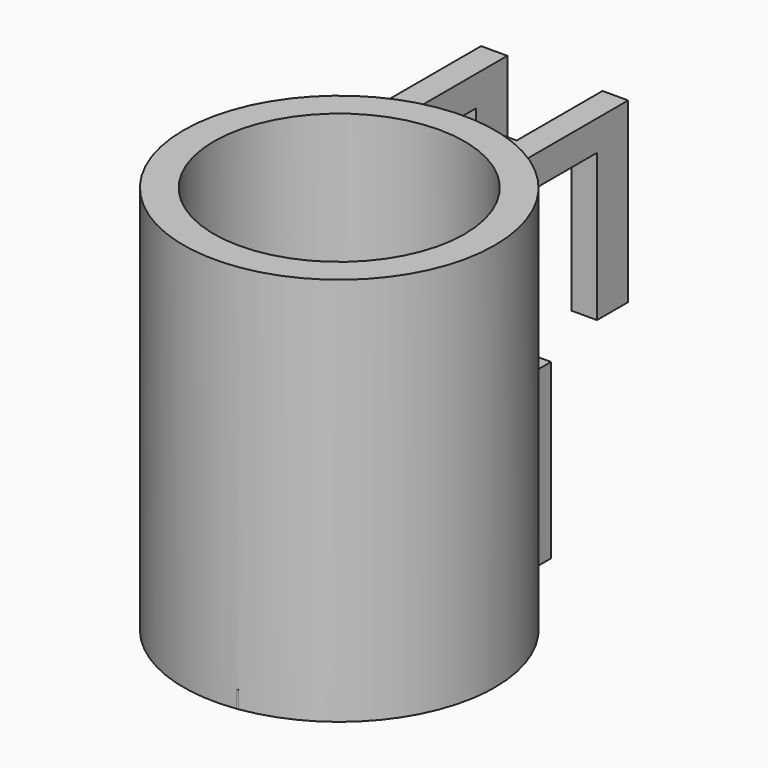
from build123d import *

# Parameters (mm, degrees)
F0_R      = 45.72
F2_DEPTH  = 114.3
F1_R      = 36.83
F3_DEPTH  = 114.3
F4_W      = 90.153438
F4_H      = 12.7
F5_DEPTH  = 5.08
F6_W      = 12.7
F6_H      = 90.641294
F7_DEPTH  = 5.08
F8_W      = 11.431906
F8_H      = 43.256522
F9_DEPTH  = 21.59
F11_DEPTH = 50.8
F12_W     = 27.94
F12_H     = 31.50979
F13_DEPTH = 55.88


with BuildPart() as f2:
    # F0 (on Top) → F2 (new body)
    with BuildSketch(Plane.XY):
        Circle(F0_R)
    extrude(amount=F2_DEPTH)

    # F1 (on Top) → F3 (cut)
    with BuildSketch(Plane.XY):
        Circle(F1_R)
    extrude(amount=F3_DEPTH, mode=Mode.SUBTRACT)

    # F4 (on Top) → F5 (join)
    with BuildSketch(Plane.XY):
        with Locations((0, -1.292501)):
            Rectangle(F4_W, F4_H)
    extrude(amount=F5_DEPTH)

    # F6 (on Top) → F7 (join)
    with BuildSketch(Plane.XY):
        with Locations((0.320298, 0)):
            Rectangle(F6_W, F6_H)
    extrude(amount=F7_DEPTH)

    # F8 (on Right) → F9 (join, symmetric)
    with BuildSketch(Plane.YZ):
        Polygon((79.057269, 111.757322), (40.957269, 111.757322), (40.957269, 102.859358), (67.625363, 102.859358), (79.057269, 102.859358), align=None)
        with Locations((73.341316, 81.231097)):
            Rectangle(F8_W, F8_H)
    extrude(amount=F9_DEPTH, both=True)

    # F10 (on Top) → F11 (join)
    with BuildSketch(Plane.XY):
        with BuildLine():
            Line((-13.038913, 40.473972), (15.744843, 40.473972))
            Line((15.744843, 40.473972), (15.744843, 58.045961))
            Line((15.744843, 58.045961), (12.391999, 58.045961))
            ThreePointArc((12.391999, 58.045961), (1.352965, 47.006926), (-9.68607, 58.045961))
            Line((-9.68607, 58.045961), (-13.038913, 58.045961))
            Line((-13.038913, 58.045961), (-13.038913, 40.473972))
        make_face()
    extrude(amount=F11_DEPTH)

    # F12 (on face) → F13 (cut)
    with BuildSketch(Plane.XY.offset(111.757322)):
        with Locations((0.096068, 63.302374)):
            Rectangle(F12_W, F12_H)
    extrude(amount=-F13_DEPTH, mode=Mode.SUBTRACT)


solid = f2.part
